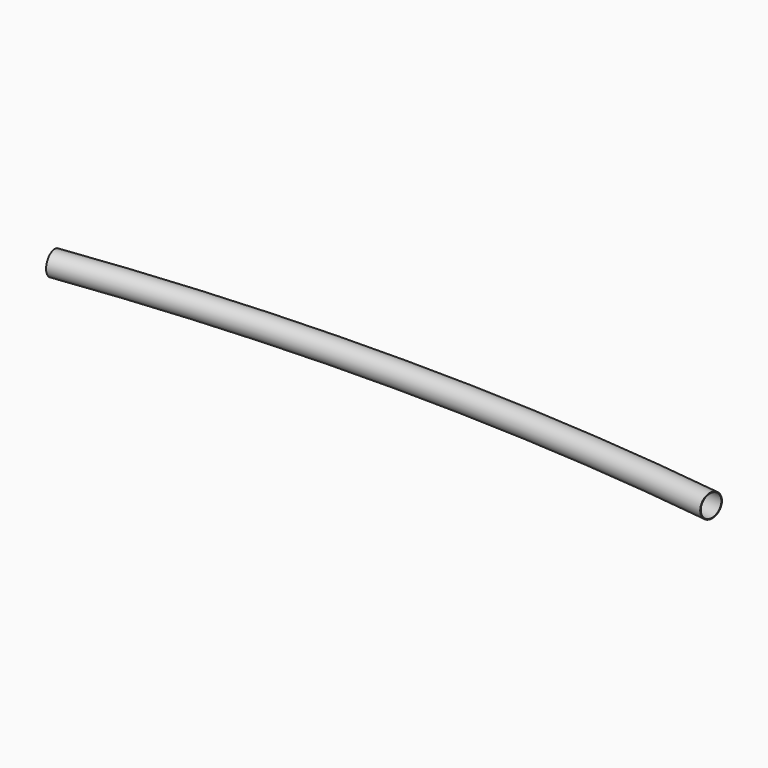
from build123d import *

# Parameters (mm, degrees)
F2_R   = 19.05
F2_R_2 = 18.05


with BuildPart() as f3:
    # F3: sweep along a path in F0
    with BuildLine(Plane.XY) as f3_path:
        ThreePointArc((531.87854, 0), (0, 34.861161), (-531.87854, 0))
    # F2 (on face) → F3 (sweep)
    with BuildSketch(Plane(origin=(-522.816879, -68.830148, 0), x_dir=(0.130526, -0.991445, 0), z_dir=(-0.991445, -0.130526, 0))):
        with Locations((-69.424081, 0)):
            Circle(F2_R)
        with Locations((-69.424081, 0)):
            Circle(F2_R_2, mode=Mode.SUBTRACT)
    sweep(path=f3_path.line)


solid = f3.part
